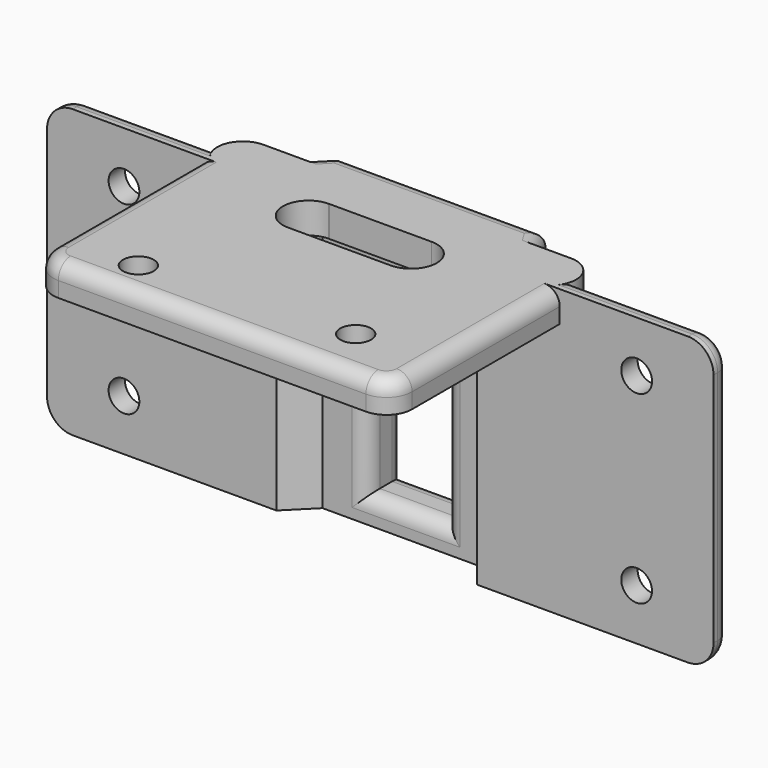
from build123d import *

# Parameters (mm, degrees)
F0_R     = 3
F1_DEPTH = 6
F3_DEPTH = 50
F4_W     = 15
F4_H     = 38
F5_DEPTH = 25
F6_W     = 30
F6_H     = 4
F7_DEPTH = 56
F8_R     = 3
F9_DEPTH = 25
F10_R    = 5
F11_R    = 3


with BuildPart() as f1:
    # F0 (on Top) → F1 (new body)
    with BuildSketch(Plane.XY):
        with BuildLine():
            ThreePointArc((-31.006932, -18.493655), (-34.542466, -19.958121), (-36.006932, -23.493655))
            Line((-36.006932, -23.493655), (-36.006932, -63.493655))
            ThreePointArc((-36.006932, -63.493655), (-34.542466, -67.029189), (-31.006932, -68.493655))
            Line((-31.006932, -68.493655), (28.993068, -68.493655))
            ThreePointArc((28.993068, -68.493655), (32.528602, -67.029189), (33.993068, -63.493655))
            Line((33.993068, -63.493655), (33.993068, -23.493655))
            ThreePointArc((33.993068, -23.493655), (32.528602, -19.958121), (28.993068, -18.493655))
            Line((28.993068, -18.493655), (22.993068, -18.493655))
            Line((22.993068, -18.493655), (19.993068, -13.493655))
            Line((19.993068, -13.493655), (-20.006932, -13.493655))
            Line((-20.006932, -13.493655), (-25.006932, -18.493655))
            Line((-25.006932, -18.493655), (-31.006932, -18.493655))
        make_face()
        with Locations((-21.006932, -61.493655)):
            Circle(F0_R, mode=Mode.SUBTRACT)
        with Locations((18.993068, -58.493655)):
            Circle(F0_R, mode=Mode.SUBTRACT)
        with BuildLine():
            ThreePointArc((-11.079868, -27.494187), (-11.007064, -27.493655), (-10.934261, -27.494183))
            Line((-10.934261, -27.494183), (8.992936, -27.493655))
            ThreePointArc((8.992936, -27.493655), (13.993061, -32.485052), (9.010142, -37.493626))
            ThreePointArc((9.010142, -37.493626), (8.993068, -37.493655), (8.975994, -37.493626))
            Line((8.975994, -37.493626), (-10.989858, -37.493626))
            ThreePointArc((-10.989858, -37.493626), (-16.006729, -32.538661), (-11.079868, -27.494187))
        make_face(mode=Mode.SUBTRACT)
    extrude(amount=F1_DEPTH)

    # F2 (on face) → F3 (join)
    with BuildSketch(Plane(origin=(0, 0, 0), x_dir=(1, 0, 0), z_dir=(0, 0, -1))):
        with BuildLine():
            Line((22.993068, 18.493655), (28.993068, 18.493655))
            ThreePointArc((28.993068, 18.493655), (32.528602, 19.958121), (33.993068, 23.493655))
            Line((33.993068, 23.493655), (33.993068, 27.493655))
            Line((33.993068, 27.493655), (17.897355, 27.493655))
            Line((17.897355, 27.493655), (14.897355, 22.493655))
            Line((14.897355, 22.493655), (-16.27901, 22.493655))
            Line((-16.27901, 22.493655), (-21.27901, 27.493655))
            Line((-21.27901, 27.493655), (-36.006932, 27.493655))
            Line((-36.006932, 27.493655), (-36.006932, 23.493655))
            ThreePointArc((-36.006932, 23.493655), (-34.542466, 19.958121), (-31.006932, 18.493655))
            Line((-31.006932, 18.493655), (-25.006932, 18.493655))
            Line((-25.006932, 18.493655), (-20.006932, 13.493655))
            Line((-20.006932, 13.493655), (-17.935864, 13.493655))
            Line((-17.935864, 13.493655), (17.162116, 13.493655))
            Line((17.162116, 13.493655), (19.993068, 13.493655))
            Line((19.993068, 13.493655), (22.993068, 18.493655))
        make_face()
    extrude(amount=F3_DEPTH)

    # F4 (on face) → F5 (cut)
    with BuildSketch(Plane(origin=(0, -13.493655, 0), x_dir=(-1, 0, 0), z_dir=(0, 1, 0))):
        with Locations((0.006932, -26)):
            Rectangle(F4_W, F4_H)
    extrude(amount=-F5_DEPTH, mode=Mode.SUBTRACT)

    # F6 (on face) → F7 (join)
    with BuildSketch(Plane(origin=(0, 0, -50), x_dir=(1, 0, 0), z_dir=(0, 0, -1))):
        with Locations((48.993068, 25.493655)):
            Rectangle(F6_W, F6_H)
        with Locations((-51.006932, 25.493655)):
            Rectangle(F6_W, F6_H)
    extrude(amount=-F7_DEPTH)

    # F8 (on face) → F9 (cut)
    with BuildSketch(Plane(origin=(0, -23.493655, 0), x_dir=(-1, 0, 0), z_dir=(0, 1, 0))):
        with Locations((-48.993068, -4)):
            Circle(F8_R)
        with Locations((-48.993068, -40)):
            Circle(F8_R)
        with Locations((51.006932, -4)):
            Circle(F8_R)
        with Locations((51.006932, -40)):
            Circle(F8_R)
    extrude(amount=-F9_DEPTH, mode=Mode.SUBTRACT)

    # F10
    f10_edges = [f1.edges().sort_by_distance(p)[0] for p in [
        (-66.006932, -25.493655, 6),
        (63.993068, -25.493655, 6),
        (-66.006932, -25.493655, -50),
        (63.993068, -25.493655, -50),
    ]]
    fillet(f10_edges, radius=F10_R)

    # F11
    f11_edges = [f1.edges().sort_by_distance(p)[0] for p in [
        (7.493068, -13.493655, -26),
        (-0.006932, -13.493655, -7),
        (-7.506932, -13.493655, -26),
        (-0.006932, -13.493655, -45),
        (7.493068, -22.493655, -26),
        (-0.006932, -22.493655, -7),
        (-7.506932, -22.493655, -26),
        (-0.006932, -22.493655, -45),
        (-36.006932, -45.493655, 6),
        (46.493068, -23.493655, 6),
        (-48.506932, -23.493655, 6),
        (-0.006932, -13.493655, 6),
        (-22.506932, -15.993655, 6),
        (21.493068, -15.993655, 6),
    ]]
    fillet(f11_edges, radius=F11_R)


solid = f1.part
